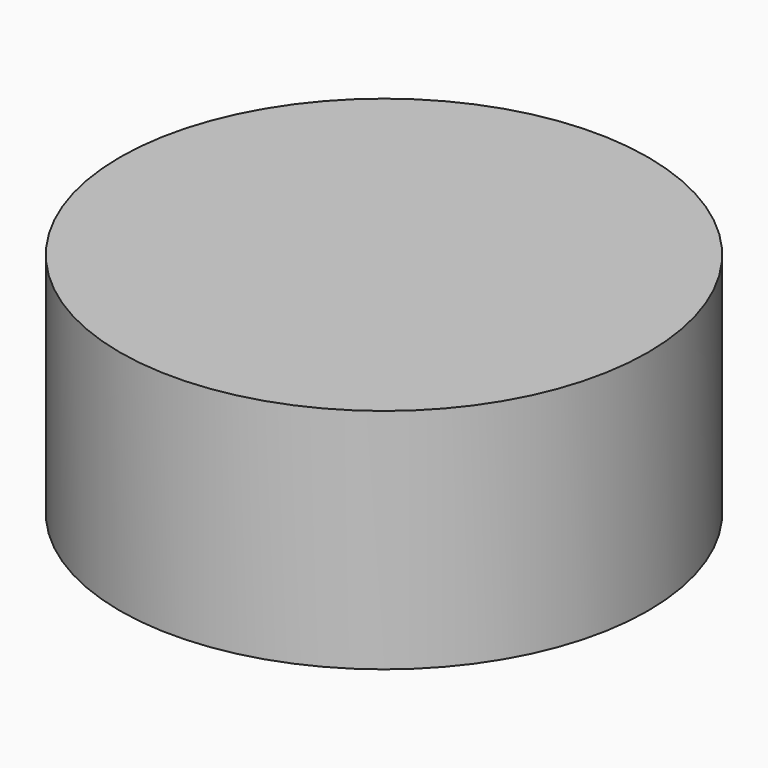
from build123d import *

# Parameters (mm, degrees)
F0_R     = 5.898299
F0_W     = 3.661104
F0_H     = 3.340356
F1_DEPTH = 5.08


with BuildPart() as f1:
    # F0 (on Top) → F1 (new body)
    with BuildSketch(Plane.XY):
        with Locations((-11.294943, 31.230975)):
            Circle(F0_R)
        Polygon((-14.956047, 31.230975), (-14.956047, 34.571331), (-11.294943, 34.571331), (-7.499151, 34.571331), (-7.499151, 27.435344), (-14.956047, 27.435344), align=None, mode=Mode.SUBTRACT)
        with Locations((-13.125495, 32.901153)):
            Rectangle(F0_W, F0_H)
        Polygon((-7.499151, 34.571331), (-11.294943, 34.571331), (-11.294943, 31.230975), (-14.956047, 31.230975), (-14.956047, 27.435344), (-7.499151, 27.435344), align=None)
    extrude(amount=F1_DEPTH)


solid = f1.part
